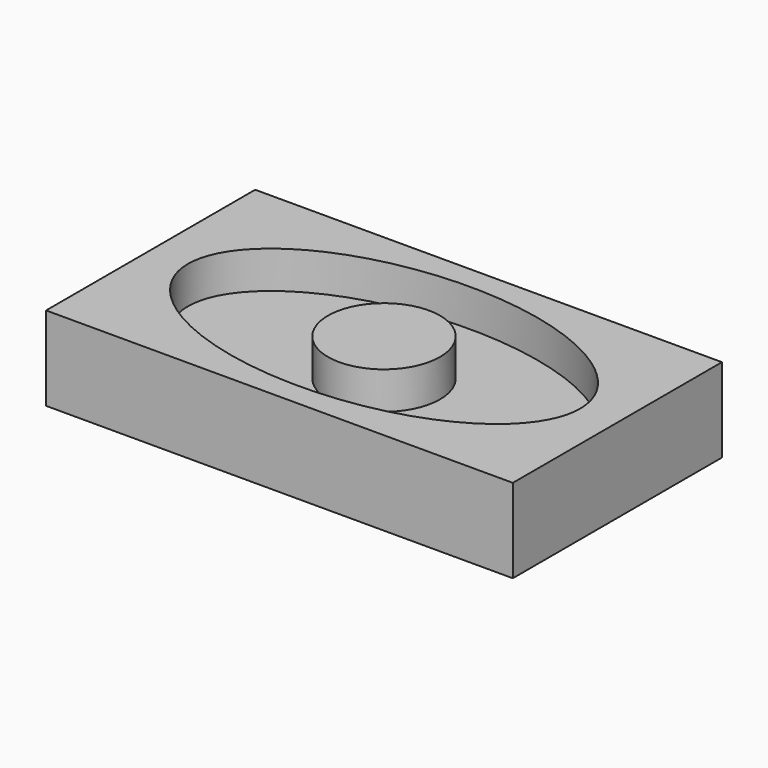
from build123d import *

# Parameters (mm, degrees)
F0_W     = 250
F0_H     = 25
F1_DEPTH = 140
F2_W     = 250
F2_H     = 140
F2_R     = 30
F3_DEPTH = 20


with BuildPart() as f1:
    # F0 (on Front) → F1 (new body)
    with BuildSketch(Plane.XZ):
        Rectangle(F0_W, F0_H)
    extrude(amount=F1_DEPTH)

    # F2 (on face) → F3 (join)
    with BuildSketch(Plane.XY.offset(12.5)):
        with Locations((0, -70)):
            Rectangle(F2_W, F2_H)
        with BuildLine():
            add(Edge.make_bspline(
                [(-105, -70), (-105, -169.592921), (52.5, -119.796461), (210, -70), (52.5, -20.203539), (-105, 29.592921), (-105, -70)],
                knots=[0, 0, 0, 2.094395, 2.094395, 4.18879, 4.18879, 6.283185, 6.283185, 6.283185], degree=2, weights=[1, 0.5, 1, 0.5, 1, 0.5, 1]))
        make_face(mode=Mode.SUBTRACT)
        with Locations((0, -70)):
            Circle(F2_R)
    extrude(amount=F3_DEPTH)


solid = f1.part
